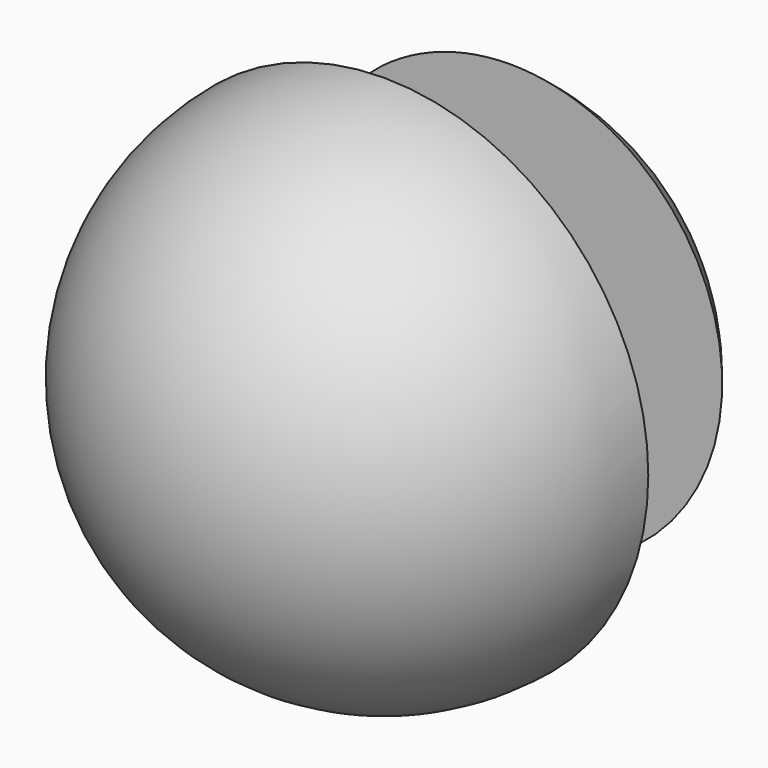
from build123d import *

# Parameters (mm, degrees)
F2_DEPTH = 25.4


with BuildPart() as f1:
    # F0 (on Front) → F1 (revolve)
    with BuildSketch(Plane.XZ):
        with BuildLine():
            ThreePointArc((0, 8.7427215788), (-8.7427215788, 0), (0, -8.7427215788))
            Line((0, -8.7427215788), (0, 0))
            Line((0, 0), (0, 8.7427215788))
        make_face()
        with BuildLine():
            Line((0, 40.5132286251), (0, 42.575878625))
            ThreePointArc((0, 42.575878625), (-42.575878625, 0), (0, -42.575878625))
            Line((0, -42.575878625), (0, -8.7427215788))
            ThreePointArc((0, -8.7427215788), (-8.7427215788, 0), (0, 8.7427215788))
            Line((0, 8.7427215788), (0, 40.5132286251))
        make_face()
        with BuildLine():
            Line((0, 40.5132286251), (0, 42.575878625))
            ThreePointArc((0, 42.575878625), (-42.575878625, 0), (0, -42.575878625))
            Line((0, -42.575878625), (0, -8.7427215788))
            ThreePointArc((0, -8.7427215788), (-8.7427215788, 0), (0, 8.7427215788))
            Line((0, 8.7427215788), (0, 40.5132286251))
        make_face()
    revolve(axis=Axis((0, 0, 20.2566143125), (0, 0, 1)))

    # F0 (on Front) → F2 (cut)
    with BuildSketch(Plane.XZ):
        with BuildLine():
            ThreePointArc((0, -42.575878625), (30.1056924907, -30.1056924907), (42.575878625, 0))
            ThreePointArc((42.575878625, 0), (30.1056924907, 30.1056924907), (0, 42.575878625))
            Line((0, 42.575878625), (0, 40.5132286251))
            Line((0, 40.5132286251), (0, 8.7427215788))
            ThreePointArc((0, 8.7427215788), (6.1820377144, 6.1820377144), (8.7427215788, 0))
            ThreePointArc((8.7427215788, 0), (6.1820377144, -6.1820377144), (0, -8.7427215788))
            Line((0, -8.7427215788), (0, -42.575878625))
        make_face()
        with BuildLine():
            Line((0, 40.5132286251), (0, 42.575878625))
            ThreePointArc((0, 42.575878625), (-42.575878625, 0), (0, -42.575878625))
            Line((0, -42.575878625), (0, -8.7427215788))
            ThreePointArc((0, -8.7427215788), (-8.7427215788, 0), (0, 8.7427215788))
            Line((0, 8.7427215788), (0, 40.5132286251))
        make_face()
    extrude(amount=-F2_DEPTH, mode=Mode.SUBTRACT)


solid = f1.part
